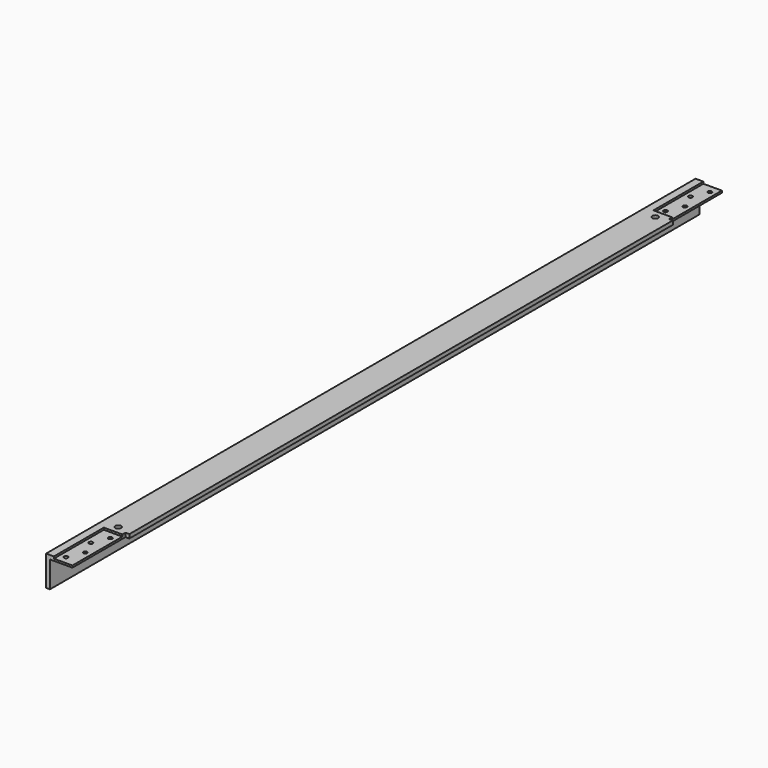
from build123d import *

# Parameters (mm, degrees)
F1_DEPTH = 660.4
F3_DEPTH = 49.2135
F2_W     = 30.1752
F2_H     = 101.6
F2_R     = 3.175
F4_DEPTH = 3.175
F5_D     = 6.35
F6_D     = 9.525


with BuildPart() as f1:
    # F0 (on Front) → F1 (new body, symmetric)
    with BuildSketch(Plane.XZ):
        Polygon((23.312041, 26.91088), (-25.900459, 26.91088), (-25.900459, -22.30162), (-19.550459, -22.30162), (-19.550459, 20.56088), (23.312041, 20.56088), align=None)
    extrude(amount=F1_DEPTH, both=True)

    # F2 (on face) → F3 (cut, through all)
    with BuildSketch(Plane.XY.offset(26.91088)):
        Polygon((16.962041, 552.5516), (23.312041, 552.5516), (23.312041, 660.4), (16.962041, 660.4), (16.962041, 558.8), align=None)
        Polygon((23.312041, -660.4), (23.312041, -552.5516), (16.962041, -552.5516), (16.962041, -558.8), (16.962041, -660.4), align=None)
    extrude(amount=-F3_DEPTH, mode=Mode.SUBTRACT)

    # F2 (on face) → F4 (cut)
    with BuildSketch(Plane.XY.offset(26.91088)):
        with Locations((1.874441, -609.6)):
            Rectangle(F2_W, F2_H)
        with Locations((-3.688159, -647.7)):
            Circle(F2_R, mode=Mode.SUBTRACT)
        with Locations((-3.688159, -596.9)):
            Circle(F2_R, mode=Mode.SUBTRACT)
        with Locations((7.437041, -622.3)):
            Circle(F2_R, mode=Mode.SUBTRACT)
        with Locations((7.437041, -571.5)):
            Circle(F2_R, mode=Mode.SUBTRACT)
        with Locations((1.874441, 609.6)):
            Rectangle(F2_W, F2_H)
        with Locations((-3.688159, 571.5)):
            Circle(F2_R, mode=Mode.SUBTRACT)
        with Locations((-3.688159, 622.3)):
            Circle(F2_R, mode=Mode.SUBTRACT)
        with Locations((7.437041, 596.9)):
            Circle(F2_R, mode=Mode.SUBTRACT)
        with Locations((7.437041, 647.7)):
            Circle(F2_R, mode=Mode.SUBTRACT)
    extrude(amount=-F4_DEPTH, mode=Mode.SUBTRACT)

    # F5 (through all)
    with Locations(Plane.XY.offset(26.91088)):
        with Locations((-3.688159, -596.9), (7.437041, -571.5), (7.437041, -622.3), (-3.688159, -647.7), (7.437041, 596.9), (-3.688159, 622.3), (7.437041, 647.7), (-3.688159, 571.5)):
            Hole(F5_D / 2)

    # F6 (through all)
    with Locations(Plane.XY.offset(26.91088)):
        with Locations((0, -546.1), (0, 546.1)):
            Hole(F6_D / 2)


solid = f1.part
